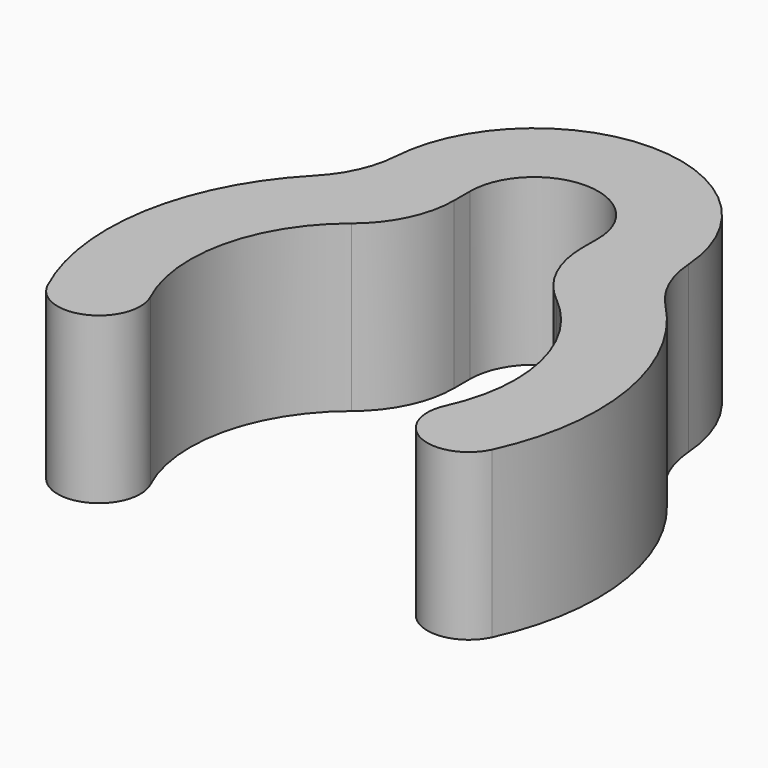
from build123d import *

# Parameters (mm, degrees)
F2_DEPTH = 8


with BuildPart() as f2:
    # F1 (on Top) → F2 (new body)
    with BuildSketch(Plane.XY):
        with BuildLine():
            ThreePointArc((4.954369, 6.121262), (7.672943, 1.772448), (7.137174, -3.328119))
            ThreePointArc((7.137174, -3.328119), (8.104553, -5.985971), (10.762405, -5.018592))
            ThreePointArc((10.762405, -5.018592), (11.706561, 1.993), (8.495444, 8.297172))
            ThreePointArc((8.495444, 8.297172), (7.508107, 9.749502), (7.083848, 11.453644))
            ThreePointArc((7.083848, 11.453644), (0, 18.075), (-7.083848, 11.453644))
            ThreePointArc((-7.083848, 11.453644), (-7.508107, 9.749502), (-8.495444, 8.297172))
            ThreePointArc((-8.495444, 8.297172), (-11.706561, 1.993), (-10.762405, -5.018592))
            ThreePointArc((-10.762405, -5.018592), (-8.104553, -5.985971), (-7.137174, -3.328119))
            ThreePointArc((-7.137174, -3.328119), (-7.672943, 1.772448), (-4.954369, 6.121262))
            ThreePointArc((-4.954369, 6.121262), (-3.587343, 7.854659), (-3.1, 10.007778))
            Line((-3.1, 10.007778), (-3.1, 10.975))
            ThreePointArc((-3.1, 10.975), (0, 14.075), (3.1, 10.975))
            Line((3.1, 10.975), (3.1, 10.007778))
            ThreePointArc((3.1, 10.007778), (3.587343, 7.854659), (4.954369, 6.121262))
        make_face()
    extrude(amount=F2_DEPTH)


solid = f2.part
